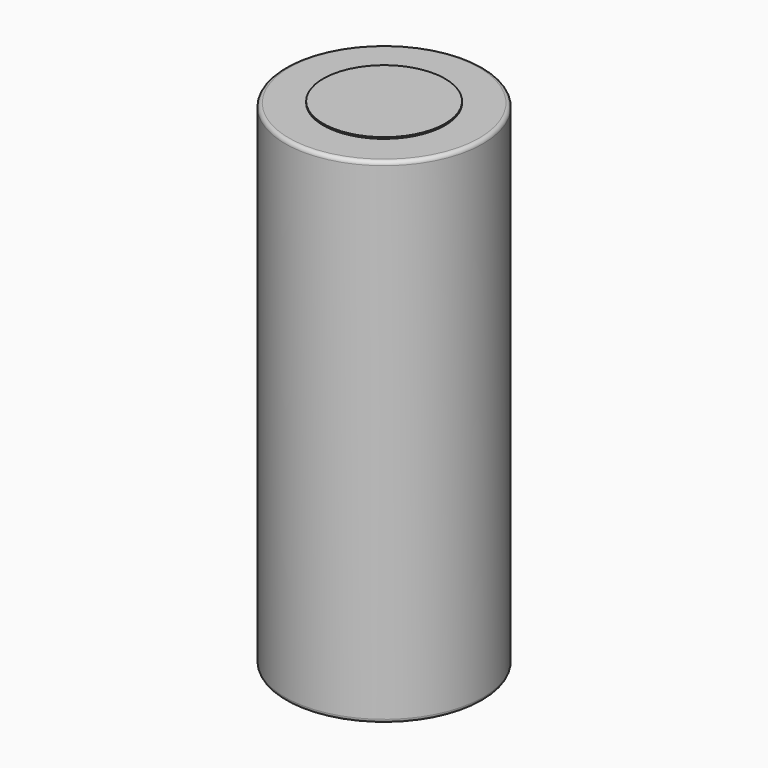
from build123d import *

# Parameters (mm, degrees)
F0_R     = 13
F1_DEPTH = 65
F2_R     = 8
F3_DEPTH = 0.2
F4_R     = 11.5
F5_DEPTH = 0.2
F6_R     = 11.5
F7_DEPTH = 0.2
F8_R     = 0.5


with BuildPart() as f1:
    # F0 (on Top) → F1 (new body)
    with BuildSketch(Plane.XY):
        Circle(F0_R)
    extrude(amount=F1_DEPTH)

    # F4 (on face) → F5 (cut)
    with BuildSketch(Plane(origin=(0, 0, 0), x_dir=(1, 0, 0), z_dir=(0, 0, -1))):
        Circle(F4_R)
    extrude(amount=-F5_DEPTH, mode=Mode.SUBTRACT)

    # F8
    f8_edges = [f1.edges().sort_by_distance(p)[0] for p in [
        (-13, 0, 65),
        (-13, 0, 0),
    ]]
    fillet(f8_edges, radius=F8_R)


with BuildPart() as f3:
    # F2 (on face) → F3 (new body)
    with BuildSketch(Plane.XY.offset(65)):
        Circle(F2_R)
    extrude(amount=F3_DEPTH)


with BuildPart() as f7:
    # F6 (on face) → F7 (new body)
    with BuildSketch(Plane(origin=(0, 0, 0.2), x_dir=(1, 0, 0), z_dir=(0, 0, -1))):
        Circle(F6_R)
    extrude(amount=F7_DEPTH)


solid = Compound([f1.part, f3.part, f7.part])
